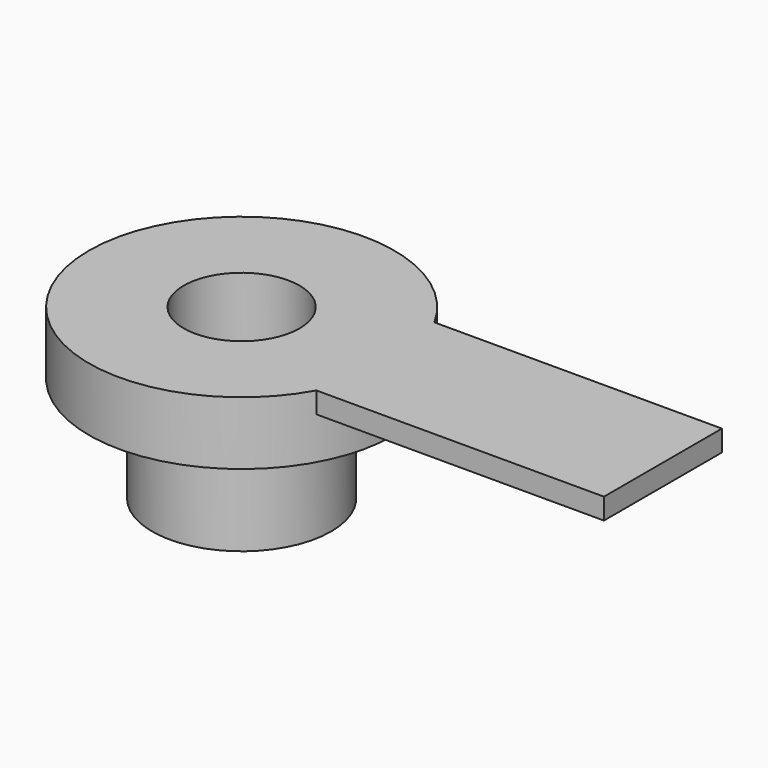
from build123d import *

# Parameters (mm, degrees)
SKETCH_R     = 7.25
PAD_DEPTH    = 3
SKETCH001_W  = 20
SKETCH001_H  = 7
PAD001_DEPTH = 1
SKETCH002_R  = 4.25
PAD002_DEPTH = 5
SKETCH003_R  = 2.75
HOLE_DEPTH   = 8.001


with BuildPart() as part:
    # Sketch → Pad (new body)
    with BuildSketch(Plane.XY):
        Circle(SKETCH_R)
    extrude(amount=PAD_DEPTH)

    # Sketch001 (on Face3 of Pad) → Pad001 (join)
    with BuildSketch(Plane.XY.offset(3)):
        with Locations((10, 0)):
            Rectangle(SKETCH001_W, SKETCH001_H)
    extrude(amount=-PAD001_DEPTH)

    # Sketch002 (on Face2 of Pad001) → Pad002 (join)
    with BuildSketch(Plane(origin=(0, 0, 0), x_dir=(1, 0, 0), z_dir=(0, 0, -1))):
        Circle(SKETCH002_R)
    extrude(amount=PAD002_DEPTH)

    # Sketch003 (on Face11 of Pad002) → Hole (cut, through all)
    with BuildSketch(Plane(origin=(0, 0, -5), x_dir=(1, 0, 0), z_dir=(0, 0, -1))):
        Circle(SKETCH003_R)
    extrude(amount=-HOLE_DEPTH, mode=Mode.SUBTRACT)


solid = part.part
